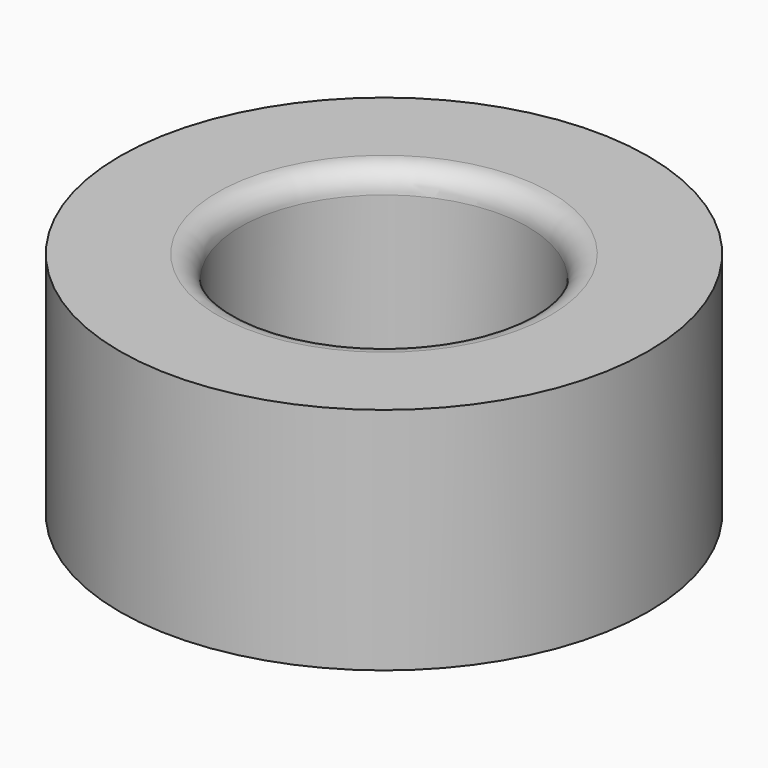
from build123d import *

# Parameters (mm, degrees)
F0_R     = 58.504478
F0_R_2   = 31.821293
F1_DEPTH = 50.8
F2_R     = 5.08
F3_R     = 7.62


with BuildPart() as f1:
    # F0 (on Top) → F1 (new body)
    with BuildSketch(Plane.XY):
        Circle(F0_R)
        Circle(F0_R_2, mode=Mode.SUBTRACT)
    extrude(amount=F1_DEPTH)

    # F2
    f2_edges = [f1.edges().sort_by_distance(p)[0] for p in [
        (-31.821293, 0, 50.8),
    ]]
    fillet(f2_edges, radius=F2_R)

    # F3
    f3_edges = [f1.edges().sort_by_distance(p)[0] for p in [
        (-31.821293, 0, 0),
    ]]
    fillet(f3_edges, radius=F3_R)


solid = f1.part
